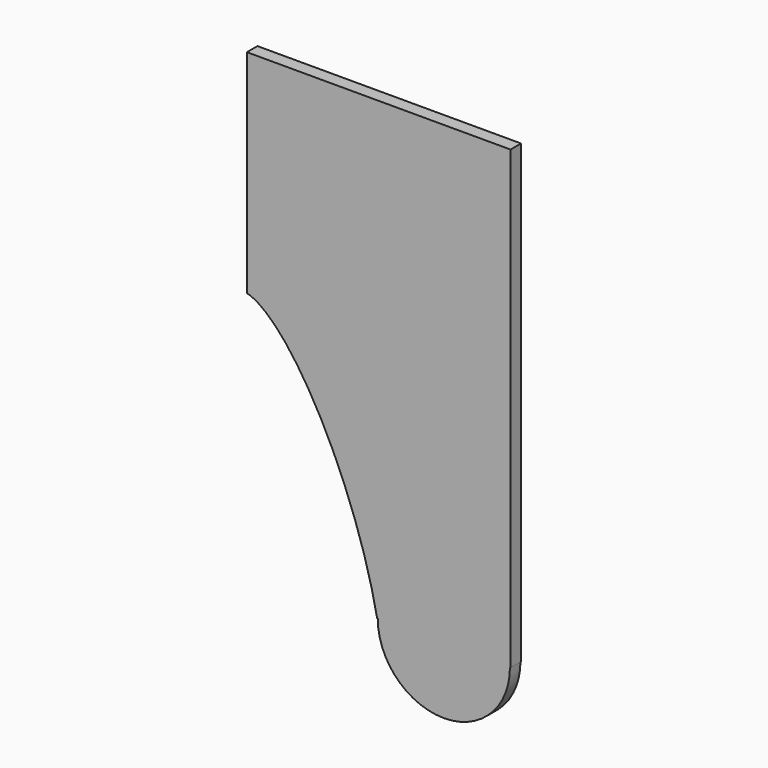
from build123d import *

# Parameters (mm, degrees)
F1_DEPTH = 2.54


with BuildPart() as f1:
    # F0 (on Front) → F1 (new body)
    with BuildSketch(Plane.XZ):
        with BuildLine():
            add(Edge.make_bspline(
                [(-0.2984023893, -43.9546074112), (-8.5201546862, -1.2258363234), (-25.4, 3.0683932448)],
                knots=[1.0465974999, 1.0465974999, 1.0465974999, 2.9394498418, 2.9394498418, 2.9394498418], degree=2, weights=[1, 0.5845863765, 1]))
            Line((-0.2984023893, -43.9546074112), (-0.1839956371, -43.9546074112))
            ThreePointArc((-0.1839956371, -43.9546074112), (12.5507988054, -56.6894018537), (25.2855932479, -43.9546074112))
            Line((25.2855932479, -43.9546074112), (25.4, -43.9546074112))
            Line((25.4, -43.9546074112), (25.4, 43.9546074112))
            Line((25.4, 43.9546074112), (-25.4, 43.9546074112))
            Line((-25.4, 43.9546074112), (-25.4, 3.0683932448))
        make_face()
    extrude(amount=F1_DEPTH)


solid = f1.part
